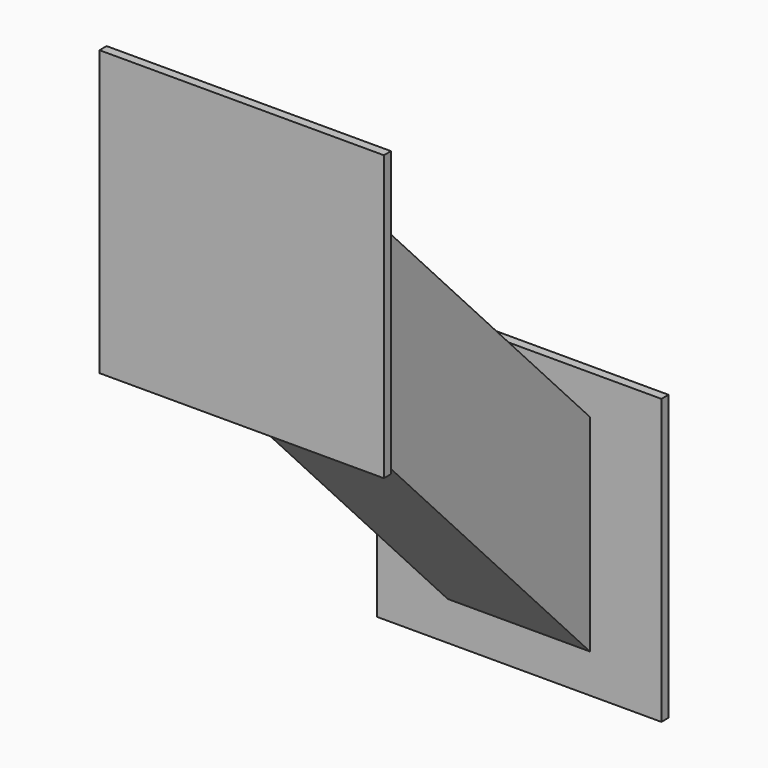
from build123d import *

# Parameters (mm, degrees)
F1_DEPTH      = 101.6
F1_DEPTH_BACK = 101.6
F2_DEPTH      = 50.8
F2_DEPTH_BACK = 50.8
F0_W          = 6.35
F0_H          = 203.241327
F3_DEPTH      = 101.6
F3_DEPTH_BACK = 101.6


with BuildPart() as f1:
    # F0 (on Right) → F1 (new body, two sides)
    with BuildSketch(Plane.YZ) as f1_sk:
        Polygon((-73.359335, -16.53693), (-67.009335, -16.53693), (-67.009335, 11.234743), (-67.009335, 158.74847), (-67.009335, 186.66307), (-73.359335, 186.66307), align=None)
    extrude(amount=F1_DEPTH)
    extrude(f1_sk.sketch, amount=-F1_DEPTH_BACK)

    # F0 (on Right) → F2 (join, two sides)
    with BuildSketch(Plane.YZ) as f2_sk:
        Polygon((-67.009335, 158.74847), (-67.009335, 11.234743), (174.290665, -242.765257), (174.290665, -95.25153), align=None)
    extrude(amount=F2_DEPTH)
    extrude(f2_sk.sketch, amount=-F2_DEPTH_BACK)


with BuildPart() as f3:
    # F0 (on Right) → F3 (new body, two sides)
    with BuildSketch(Plane.YZ) as f3_sk:
        with Locations((177.728186, -169.008393)):
            Rectangle(F0_W, F0_H)
    extrude(amount=F3_DEPTH)
    extrude(f3_sk.sketch, amount=-F3_DEPTH_BACK)


solid = Compound([f1.part, f3.part])
